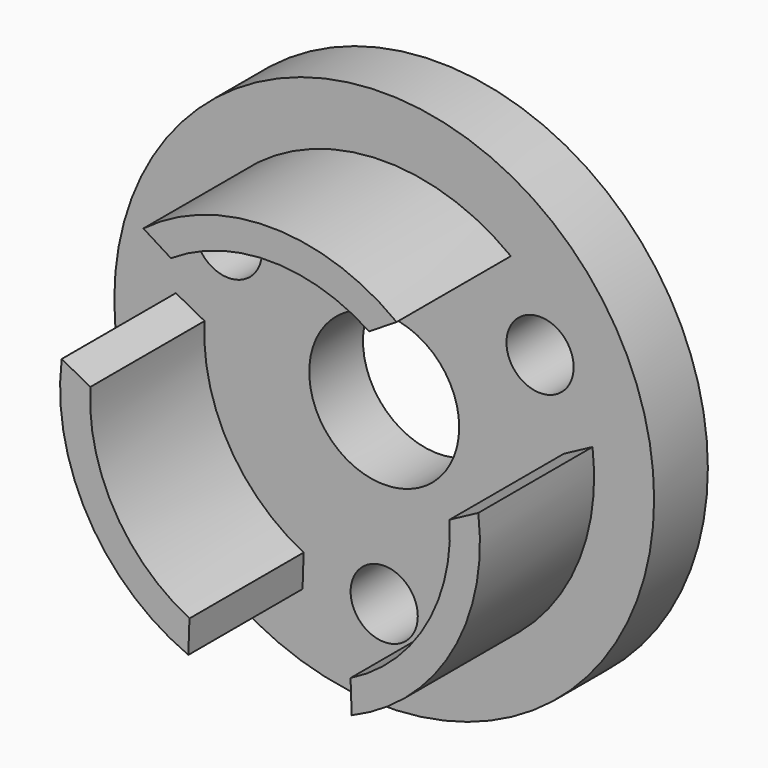
from build123d import *

# Parameters (mm, degrees)
F0_R     = 57.15
F1_DEPTH = 14.224
F2_R     = 15.875
F3_DEPTH = 25.4
F4_R     = 7.112
F5_DEPTH = 25.4
F7_DEPTH = 30.226


with BuildPart() as f1:
    # F0 (on Front) → F1 (new body)
    with BuildSketch(Plane.XZ):
        Circle(F0_R)
    extrude(amount=F1_DEPTH)

    # F2 (on face) → F3 (cut)
    with BuildSketch(Plane.XZ.offset(14.224)):
        Circle(F2_R)
    extrude(amount=-F3_DEPTH, mode=Mode.SUBTRACT)

    # F4 (on face) → F5 (cut)
    with BuildSketch(Plane.XZ.offset(14.224)):
        with Locations((0, -38.1)):
            Circle(F4_R)
        with Locations((32.995568, 19.05)):
            Circle(F4_R)
        with Locations((-32.995568, 19.05)):
            Circle(F4_R)
    extrude(amount=-F5_DEPTH, mode=Mode.SUBTRACT)

    # F6 (on face) → F7 (join)
    with BuildSketch(Plane.XZ.offset(14.224)):
        with BuildLine():
            Line((-38.032706, 2.26346), (-44.108679, 5.4979))
            ThreePointArc((-44.108679, 5.4979), (-38.494829, -22.225), (-17.293019, -40.948187))
            Line((-17.293019, -40.948187), (-17.056139, -34.06902))
            ThreePointArc((-17.056139, -34.06902), (-32.995568, -19.05), (-38.032706, 2.26346))
        make_face()
        with BuildLine():
            ThreePointArc((-20.976567, 31.80556), (0, 38.1), (20.976567, 31.80556))
            Line((20.976567, 31.80556), (26.81566, 35.450287))
            ThreePointArc((26.81566, 35.450287), (0, 44.45), (-26.81566, 35.450287))
            Line((-26.81566, 35.450287), (-20.976567, 31.80556))
        make_face()
        with BuildLine():
            Line((17.056139, -34.06902), (17.293019, -40.948187))
            ThreePointArc((17.293019, -40.948187), (38.494829, -22.225), (44.108679, 5.4979))
            Line((44.108679, 5.4979), (38.032706, 2.26346))
            ThreePointArc((38.032706, 2.26346), (32.995568, -19.05), (17.056139, -34.06902))
        make_face()
    extrude(amount=F7_DEPTH)


solid = f1.part
